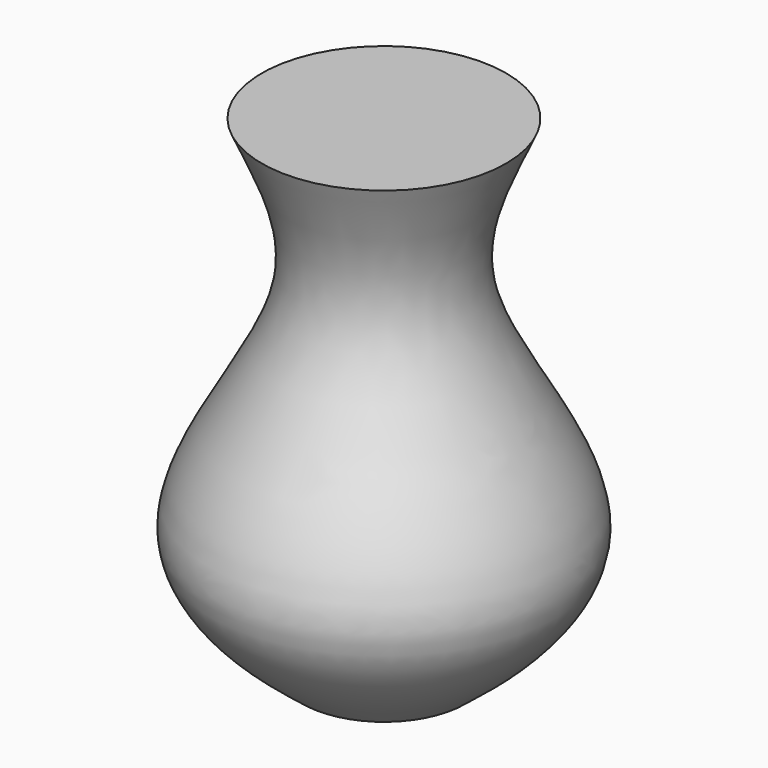
from build123d import *


with BuildPart() as f1:
    # F0 (on Front) → F1 (revolve)
    with BuildSketch(Plane.XZ):
        with BuildLine():
            Line((0, 107.4418127537), (0, 0))
            Line((0, 0), (20, 0))
            add(Edge.make_bspline(
                [(20, 0), (28.0672750344, 6.3724812657), (60.0916944145, 30.4296935872), (9.8261177858, 81.7210655841), (25.3017941687, 109.2875266856), (30, 120)],
                knots=[0, 0, 0, 0, 0.3110321242, 0.6901091135, 1, 1, 1, 1], degree=3))
            Line((30, 120), (0, 120))
            Line((0, 120), (0, 107.4418127537))
        make_face()
    revolve(axis=Axis((0, 0, 60), (0, 0, 1)))


solid = f1.part
